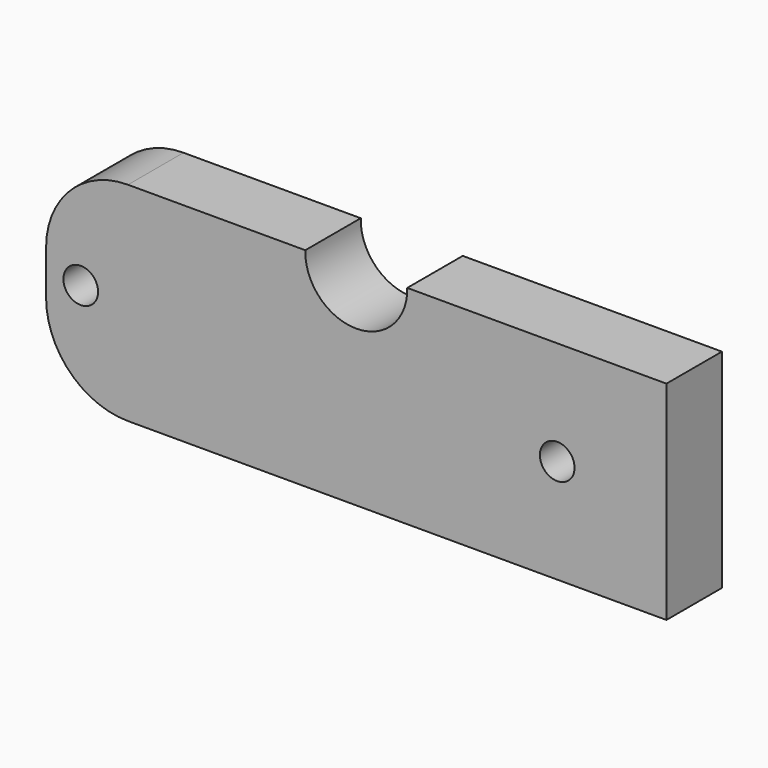
from build123d import *

# Parameters (mm, degrees)
F0_W     = 113.6
F0_H     = 38.1
F0_R     = 3.175
F1_DEPTH = 12.7
F2_R     = 15
F3_R     = 9.34
F4_DEPTH = 15.4


with BuildPart() as f1:
    # F0 (on Front) → F1 (new body)
    with BuildSketch(Plane.XZ):
        with Locations((0, 32.391511)):
            Rectangle(F0_W, F0_H)
        with Locations((-50.45, 32.391511)):
            Circle(F0_R, mode=Mode.SUBTRACT)
        with Locations((36.8, 32.391511)):
            Circle(F0_R, mode=Mode.SUBTRACT)
    extrude(amount=F1_DEPTH)

    # F2
    f2_edges = [f1.edges().sort_by_distance(p)[0] for p in [
        (-56.8, -6.35, 51.441511),
        (-56.8, -6.35, 13.341511),
    ]]
    fillet(f2_edges, radius=F2_R)

    # F3 (on face) → F4 (cut)
    with BuildSketch(Plane.XZ.offset(12.7)):
        with Locations((0, 51.177656)):
            Circle(F3_R)
    extrude(amount=-F4_DEPTH, mode=Mode.SUBTRACT)


solid = f1.part
